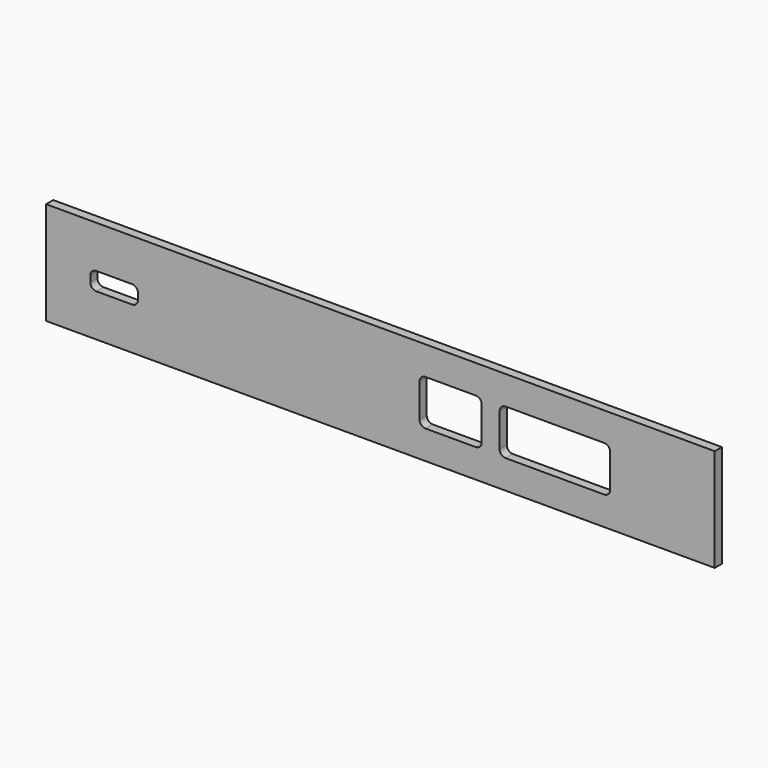
from build123d import *

# Parameters (mm, degrees)
SKETCH_W     = 1119
SKETCH_H     = 172
PAD_DEPTH    = 15
POCKET_DEPTH = 15.001


with BuildPart() as part:
    # Sketch → Pad (new body)
    with BuildSketch(Plane.XZ):
        with Locations((559.5, 86)):
            Rectangle(SKETCH_W, SKETCH_H)
    extrude(amount=PAD_DEPTH)

    # Sketch001 (on Face6 of Pad) → Pocket (cut, through all)
    with BuildSketch(Plane.XZ.offset(15)):
        with BuildLine():
            ThreePointArc((635, 124), (627.928932, 121.071068), (625, 114))
            Line((625, 58), (625, 114))
            ThreePointArc((625, 58), (627.928932, 50.928932), (635, 48))
            Line((719, 48), (635, 48))
            ThreePointArc((719, 48), (726.071068, 50.928932), (729, 58))
            Line((729, 114), (729, 58))
            ThreePointArc((729, 114), (726.071068, 121.071068), (719, 124))
            Line((635, 124), (719, 124))
        make_face()
        with BuildLine():
            ThreePointArc((769, 124), (761.928932, 121.071068), (759, 114))
            Line((759, 58), (759, 114))
            ThreePointArc((759, 58), (761.928932, 50.928932), (769, 48))
            Line((934, 48), (769, 48))
            ThreePointArc((934, 48), (941.071068, 50.928932), (944, 58))
            Line((944, 114), (944, 58))
            ThreePointArc((944, 114), (941.071068, 121.071068), (934, 124))
            Line((769, 124), (934, 124))
        make_face()
        with BuildLine():
            ThreePointArc((84, 101), (76.928932, 98.071068), (74, 91))
            Line((74, 81), (74, 91))
            ThreePointArc((74, 81), (76.928932, 73.928932), (84, 71))
            Line((144, 71), (84, 71))
            ThreePointArc((144, 71), (151.071068, 73.928932), (154, 81))
            Line((154, 91), (154, 81))
            ThreePointArc((154, 91), (151.071068, 98.071068), (144, 101))
            Line((84, 101), (144, 101))
        make_face()
    extrude(amount=-POCKET_DEPTH, mode=Mode.SUBTRACT)


solid = part.part
